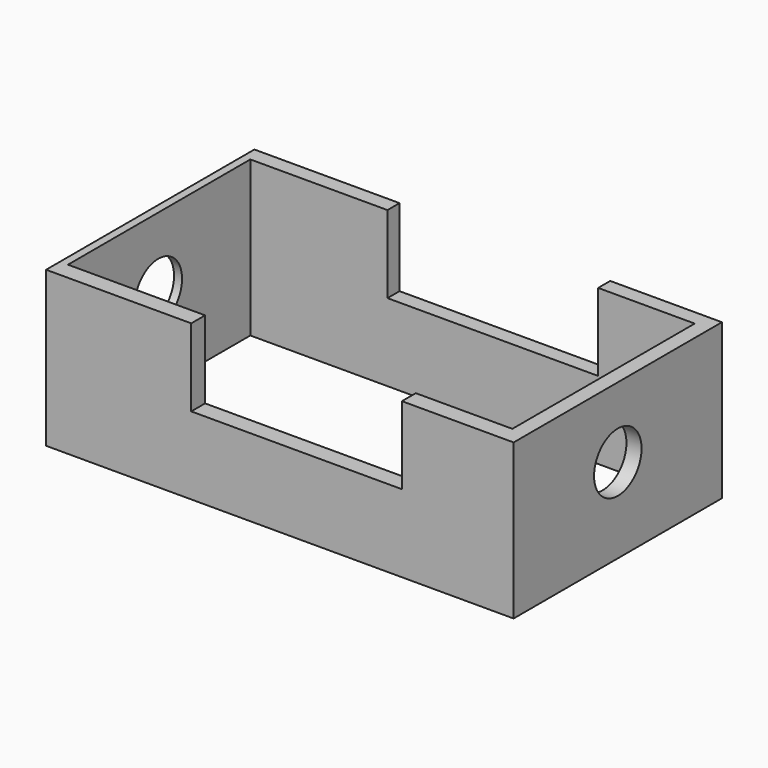
from build123d import *

# Parameters (mm, degrees)
F0_W     = 306.4280003309
F0_H     = 170.664742589
F0_W_2   = 291.2639975548
F0_H_2   = 149.4066938758
F1_DEPTH = 101.6
F2_W     = 138.0773968995
F2_H     = 67.8825782061
F3_DEPTH = 25.4
F4_DEPTH = 219.202
F5_R     = 19.4558294746
F6_DEPTH = 25.4
F7_DEPTH = 393.7


with BuildPart() as f1:
    # F0 (on Top) → F1 (new body)
    with BuildSketch(Plane.XY):
        with Locations((-1.1102333665, -0.0495761633)):
            Rectangle(F0_W, F0_H)
        with Locations((-3.4452080727, 0.6861723959)):
            Rectangle(F0_W_2, F0_H_2, mode=Mode.SUBTRACT)
    extrude(amount=F1_DEPTH)

    # F2 (on face) → F3 (join)
    with BuildSketch(Plane.XZ.offset(85.3819474578)):
        with Locations((9.856319055, 84.741289103)):
            Rectangle(F2_W, F2_H)
    extrude(amount=F3_DEPTH)

    # F4 (cut): a face of the model
    f4_faces = [f1.faces().sort_by_distance(p)[0] for p in [
        (9.856319055, -110.7819474578, 84.741289103),
    ]]
    extrude(f4_faces, amount=-F4_DEPTH, mode=Mode.SUBTRACT)

    # F5 (on face) → F6 (join)
    with BuildSketch(Plane(origin=(-154.324233532, 0, 0), x_dir=(0, -1, 0), z_dir=(-1, 0, 0))):
        with Locations((0, 55.4958842695)):
            Circle(F5_R)
    extrude(amount=F6_DEPTH)

    # F7 (cut): a face of the model
    f7_faces = [f1.faces().sort_by_distance(p)[0] for p in [
        (-179.724233532, 0, 55.4958842695),
    ]]
    extrude(f7_faces, amount=-F7_DEPTH, mode=Mode.SUBTRACT)


solid = f1.part
